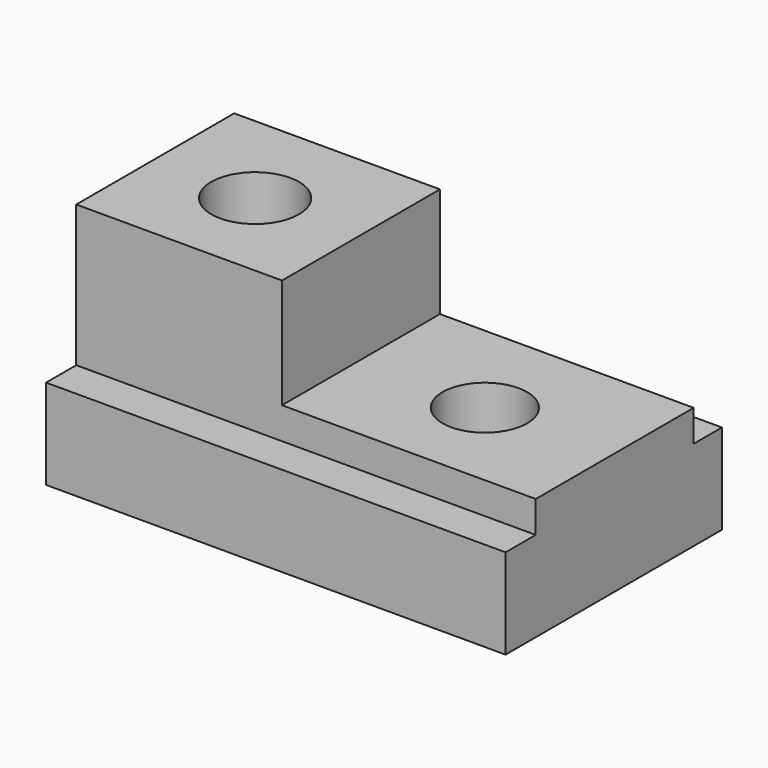
from build123d import *

# Parameters (mm, degrees)
F0_W     = 95.8622172475
F0_H     = 56.4189068973
F1_DEPTH = 25.4
F2_W     = 95.8622172475
F2_H     = 7.8636966646
F2_H_2   = 7.364413701
F3_DEPTH = 6.604
F4_W     = 41.1907965317
F4_H     = 22.9055710793
F5_DEPTH = 42.926
F6_R     = 9.155401704
F6_R_2   = 8.8261485634
F7_DEPTH = 92.964


with BuildPart() as f1:
    # F0 (on Top) → F1 (new body)
    with BuildSketch(Plane.XY):
        with Locations((9.2367231846, -8.8622625917)):
            Rectangle(F0_W, F0_H)
    extrude(amount=F1_DEPTH)

    # F2 (on face) → F3 (cut)
    with BuildSketch(Plane.XY.offset(25.4)):
        with Locations((9.2367231846, -33.1398677081)):
            Rectangle(F2_W, F2_H)
        with Locations((9.2367231846, 15.6649840064)):
            Rectangle(F2_W, F2_H_2)
    extrude(amount=-F3_DEPTH, mode=Mode.SUBTRACT)

    # F4 (on face) → F5 (join)
    with BuildSketch(Plane(origin=(-38.6943854392, 0, 0), x_dir=(0, -1, 0), z_dir=(-1, 0, 0))):
        with Locations((8.6126211099, 36.8527855396)):
            Rectangle(F4_W, F4_H)
    extrude(amount=-F5_DEPTH)

    # F6 (on Top) → F7 (cut)
    with BuildSketch(Plane.XY):
        with Locations((-17.3500627279, -9.2367241159)):
            Circle(F6_R)
        with Locations((30.5810458958, -9.2367241159)):
            Circle(F6_R_2)
    extrude(amount=F7_DEPTH, mode=Mode.SUBTRACT)


solid = f1.part
